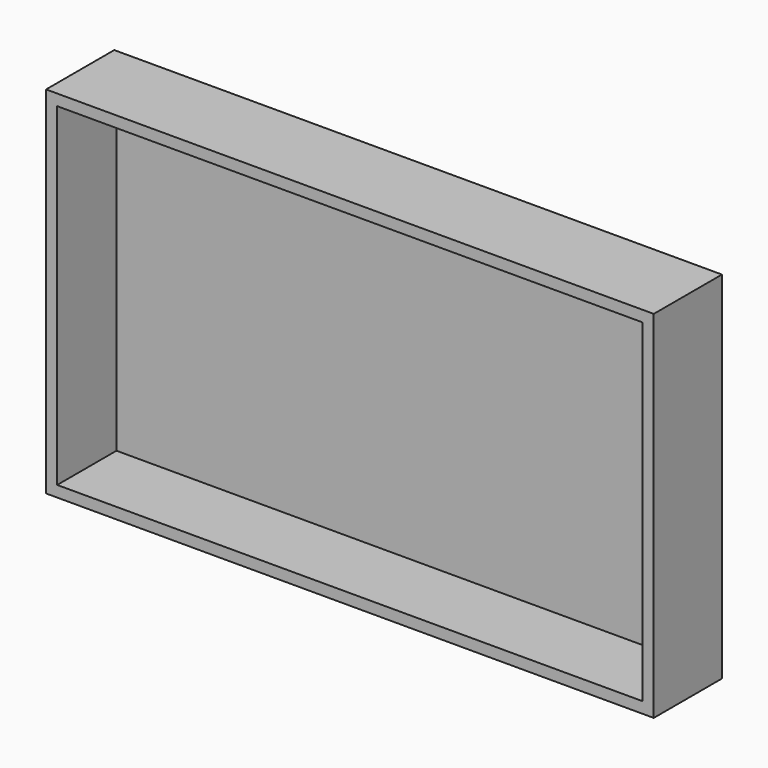
from build123d import *

# Parameters (mm, degrees)
F0_W     = 82
F0_H     = 48
F0_W_2   = 79
F0_H_2   = 45
F1_DEPTH = 1.5
F2_DEPTH = 11.5


with BuildPart() as f1:
    # F0 (on Front) → F1 (new body)
    with BuildSketch(Plane.XZ):
        Rectangle(F0_W, F0_H)
        Rectangle(F0_W_2, F0_H_2, mode=Mode.SUBTRACT)
        Rectangle(F0_W_2, F0_H_2)
    extrude(amount=F1_DEPTH)

    # F0 (on Front) → F2 (join)
    with BuildSketch(Plane.XZ):
        Rectangle(F0_W, F0_H)
        Rectangle(F0_W_2, F0_H_2, mode=Mode.SUBTRACT)
    extrude(amount=F2_DEPTH)


solid = f1.part
